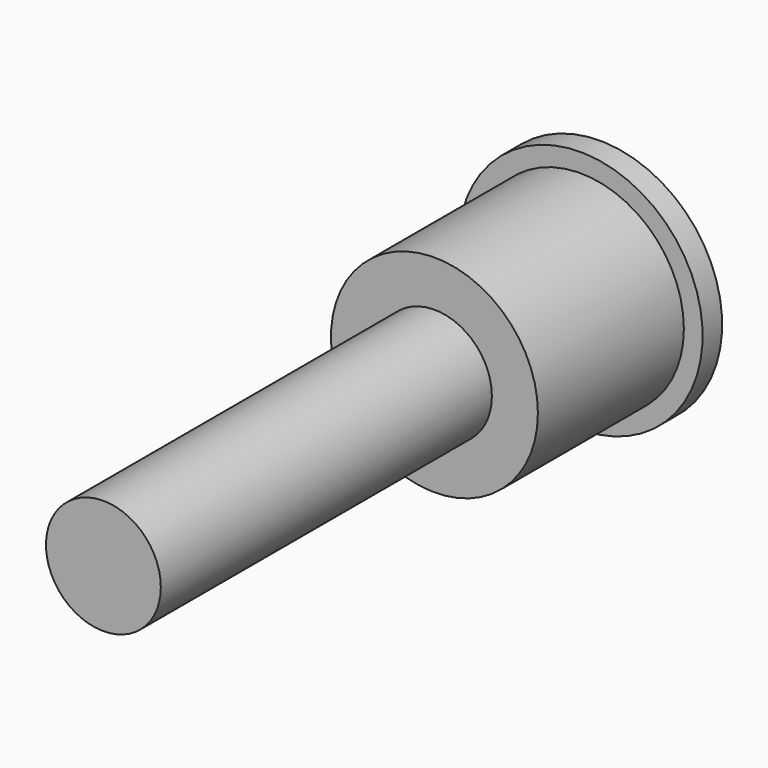
from build123d import *

# Parameters (mm, degrees)
F0_R     = 7.05
F1_DEPTH = 50.8
F2_R     = 12.7
F3_DEPTH = 25.4
F4_R     = 15
F5_DEPTH = 3


with BuildPart() as f1:
    # F0 (on Front) → F1 (new body)
    with BuildSketch(Plane.XZ):
        Circle(F0_R)
    extrude(amount=F1_DEPTH)

    # F2 (on Front) → F3 (join)
    with BuildSketch(Plane.XZ):
        Circle(F2_R)
    extrude(amount=-F3_DEPTH)

    # F4 (on face) → F5 (join)
    with BuildSketch(Plane(origin=(0, 25.4, 0), x_dir=(-1, 0, 0), z_dir=(0, 1, 0))):
        Circle(F4_R)
    extrude(amount=-F5_DEPTH)


solid = f1.part
